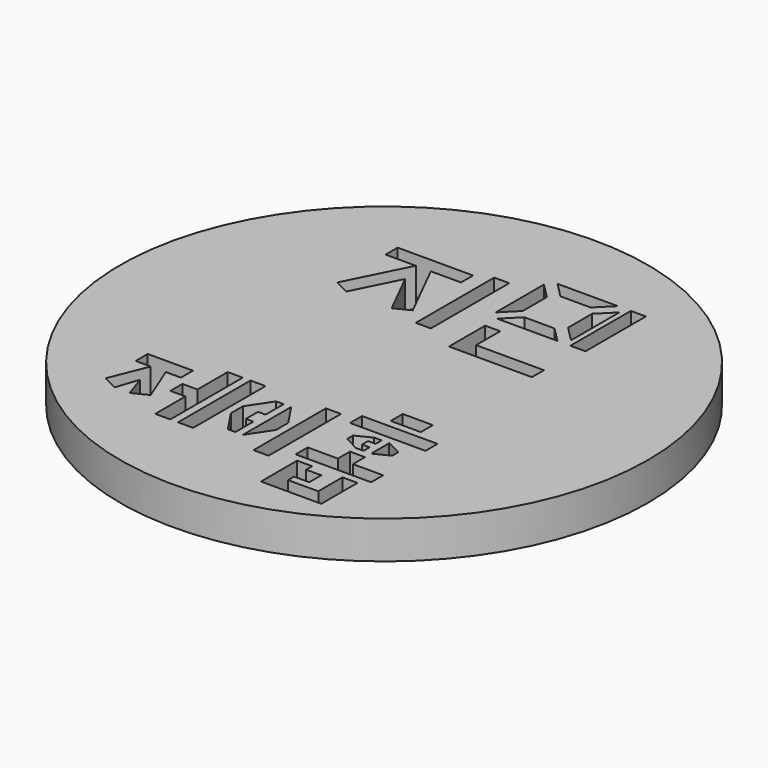
from build123d import *

# Parameters (mm, degrees)
F0_R     = 35
F0_W     = 4
F0_H     = 2
F0_W_2   = 2
F0_H_2   = 13
F0_H_3   = 10
F1_DEPTH = 5


with BuildPart() as f1:
    # F0 (on Top) → F1 (new body)
    with BuildSketch(Plane.XY):
        with Locations((-33.946003, 33.575995)):
            Circle(F0_R)
        Polygon((-54.261632, 19.790954), (-48.261632, 19.790954), (-48.261632, 17.790954), (-50.261632, 17.790954), (-48.261632, 12.791132), (-50.261632, 11.791284), (-51.262511, 14.790954), (-52.261632, 11.790954), (-54.261632, 12.791132), (-52.261632, 17.790954), (-54.261632, 17.790954), align=None, mode=Mode.SUBTRACT)
        Polygon((-45.261632, 21.791132), (-43.261632, 21.791132), (-43.261632, 9.791132), (-45.261632, 9.791132), (-45.261632, 14.791132), (-47.261632, 14.791132), (-47.261632, 16.791132), (-45.261632, 16.791132), align=None, mode=Mode.SUBTRACT)
        Polygon((-41.261632, 21.791132), (-40.235692, 21.791132), (-40.235692, 9.791132), (-42.235692, 9.791132), (-42.235692, 21.791132), align=None, mode=Mode.SUBTRACT)
        Polygon((-39.235692, 14.791132), (-39.235692, 16.791132), (-37.235692, 19.791132), (-36.235692, 19.791132), (-36.235692, 16.791132), (-37.235692, 16.791132), (-37.235692, 14.791132), (-36.235692, 14.791132), (-36.235692, 11.791132), (-37.235692, 11.791132), align=None, mode=Mode.SUBTRACT)
        Polygon((-35.235692, 11.791132), (-35.235692, 19.791132), (-33.235692, 16.791132), (-33.235692, 14.791132), align=None, mode=Mode.SUBTRACT)
        Polygon((-32.235692, 21.791132), (-30.235692, 21.791132), (-30.235692, 9.791132), (-32.235692, 9.791132), (-32.235692, 11.791132), (-32.235692, 19.791132), align=None, mode=Mode.SUBTRACT)
        Polygon((-27.235692, 4.777636), (-27.235692, 10.777636), (-26.235692, 10.777636), (-25.235692, 10.777636), (-25.235692, 9.777636), (-23.235692, 9.777636), (-23.235692, 7.777636), (-25.235692, 7.777636), (-25.235692, 6.777636), (-21.235692, 6.777636), (-21.235692, 10.777636), (-20.235692, 10.777636), (-19.235692, 10.777636), (-19.235692, 4.777636), align=None, mode=Mode.SUBTRACT)
        Polygon((-18.235692, 11.777636), (-28.235692, 11.777636), (-28.235692, 13.777636), (-24.235692, 13.777636), (-24.235692, 15.777636), (-22.235692, 15.777636), (-22.235692, 13.777636), (-18.235692, 13.777636), align=None, mode=Mode.SUBTRACT)
        Polygon((-23.235692, 16.791132), (-24.235692, 16.791132), (-26.235692, 17.79098), (-26.235692, 18.791284), (-24.235692, 19.791132), (-23.235692, 19.791132), (-23.235692, 18.791132), (-24.235692, 18.791132), (-24.235692, 17.79098), (-23.235692, 17.79098), align=None, mode=Mode.SUBTRACT)
        Polygon((-22.235692, 19.791132), (-20.235692, 18.79098), (-20.235692, 17.79098), (-22.235692, 16.791132), align=None, mode=Mode.SUBTRACT)
        Polygon((-28.235692, 22.791132), (-18.235692, 22.791132), (-18.235692, 20.791132), (-28.235692, 20.791132), (-28.235692, 21.791132), align=None, mode=Mode.SUBTRACT)
        with Locations((-23.235692, 24.777636)):
            Rectangle(F0_W, F0_H, mode=Mode.SUBTRACT)
        Polygon((-48.946003, 52.576141), (-48.946003, 54.576141), (-38.946003, 54.576141), (-38.946003, 52.576141), (-42.945711, 52.576141), (-38.946003, 44.575995), (-40.946039, 43.576068), (-43.946094, 49.575812), (-46.946003, 43.575995), (-48.945828, 44.575907), (-44.945711, 52.576141), align=None, mode=Mode.SUBTRACT)
        with Locations((-35.946003, 49.075995)):
            Rectangle(F0_W_2, F0_H_2, mode=Mode.SUBTRACT)
        Polygon((-30.946003, 40.575995), (-30.946003, 46.575995), (-28.946003, 46.575995), (-28.946003, 42.575995), (-19.946003, 42.575995), (-19.946003, 40.575995), (-28.946003, 40.575995), align=None, mode=Mode.SUBTRACT)
        Polygon((-22.946003, 48.575995), (-30.946003, 48.575995), (-28.959546, 50.575995), (-24.959546, 50.575995), align=None, mode=Mode.SUBTRACT)
        Polygon((-31.946003, 49.575995), (-31.946003, 57.575995), (-29.959546, 55.579393), (-29.959546, 51.575995), align=None, mode=Mode.SUBTRACT)
        Polygon((-28.959546, 56.575995), (-30.946003, 58.575995), (-22.946003, 58.575995), (-24.959546, 56.575995), align=None, mode=Mode.SUBTRACT)
        Polygon((-23.959546, 55.575995), (-21.946003, 57.575995), (-21.946003, 49.575995), (-23.959546, 51.575995), align=None, mode=Mode.SUBTRACT)
        with Locations((-20.235692, 53.575995)):
            Rectangle(F0_W_2, F0_H_3, mode=Mode.SUBTRACT)
    extrude(amount=F1_DEPTH)


solid = f1.part
